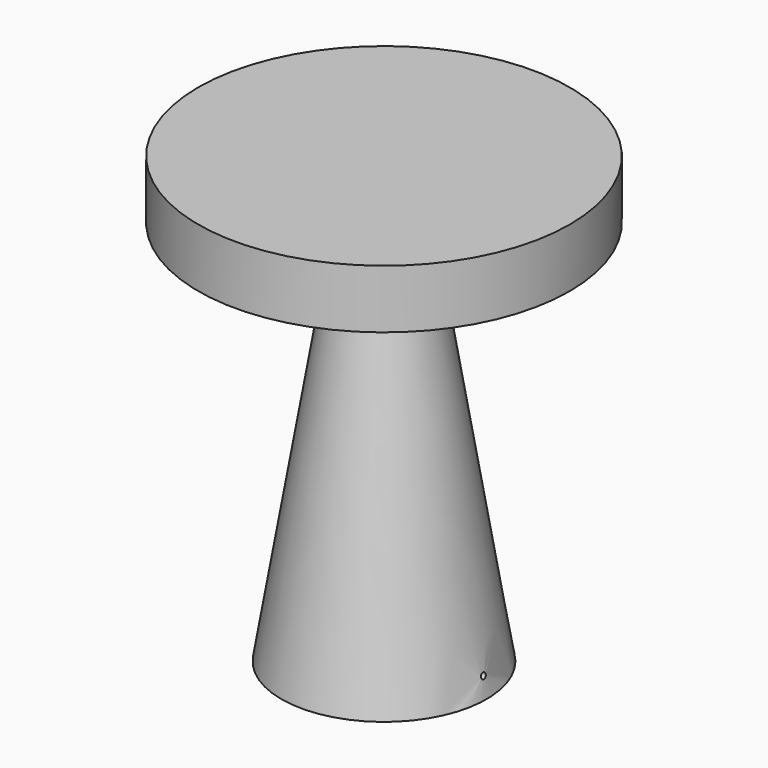
from build123d import *

# Parameters (mm, degrees)
F2_R           = 8.5
F6_R           = 6
F7_DEPTH       = 475
F8_R           = 67.5
F8_R_2         = 6
F9_DEPTH       = 30
F10_W          = 1
F10_H          = 25
F12_W          = 1
F12_H          = 25
F14_W          = 1
F14_H          = 50
F16_W          = 30
F16_H          = 4
F20_W          = 248.7395628745
F20_H          = 150
F21_DEPTH      = 180.001
F21_DEPTH_BACK = 180.001
F26_R          = 6
F27_DEPTH      = 30
F28_R          = 5
F29_DEPTH      = 425.001
F30_W          = 17.797998304
F30_H          = 9.9990194846
F31_DEPTH      = 5
F32_W          = 30
F32_H          = 20
F33_DEPTH      = 23
F34_W          = 11.7895848751
F34_H          = 20
F35_DEPTH      = 15
F37_DEPTH      = 5
F37_DEPTH_BACK = 5
F38_R          = 6
F38_R_2        = 5
F39_DEPTH      = 25
F40_R          = 80
F41_DEPTH      = 35
F43_R          = 3
F44_DEPTH      = 190.001
F45_R          = 6
F46_DEPTH      = 20
F47_R          = 6
F47_R_2        = 5
F48_DEPTH      = 18
F49_R          = 5
F50_DEPTH      = 20
F50_DEPTH_BACK = 20


with BuildPart() as f1:
    # F0 (on Front) → F1 (revolve)
    with BuildSketch(Plane.XZ):
        Polygon((-80, 0), (0, 0), (0, 450), (-20, 450), align=None)
    revolve(axis=Axis((0, 0, 225), (0, 0, -1)))


with BuildPart() as f3:
    # F2 (on Front) → F3 (revolve)
    with BuildSketch(Plane.XZ):
        with Locations((-141.5, 410)):
            Circle(F2_R)
    revolve(axis=Axis((0, 0, 205), (0, 0, -1)))


with BuildPart() as f5:
    # F4 (on Front) → F5 (revolve)
    with BuildSketch(Plane.XZ):
        Polygon((-180, 500), (-180, 450), (-165, 450), (-165, 475), (-20, 475), (-20, 450), (0, 450), (0, 475), (0, 500), align=None)
    revolve(axis=Axis((0, 0, 487.5), (0, 0, 1)))


with BuildPart() as f7_tool:
    # F6 (on face) → F7 (new body, through all)
    with BuildSketch(Plane(origin=(0, 0, 0), x_dir=(1, 0, 0), z_dir=(0, 0, -1))):
        Circle(F6_R)
    extrude(amount=-F7_DEPTH)


with BuildPart() as f1_1:
    add(f1.part)

    # F7: cut by f7_tool
    add(f7_tool.part, mode=Mode.SUBTRACT)

    # F8 (on face) → F9 (cut)
    with BuildSketch(Plane(origin=(0, 0, 0), x_dir=(1, 0, 0), z_dir=(0, 0, -1))):
        Circle(F8_R)
        Circle(F8_R_2, mode=Mode.SUBTRACT)
    extrude(amount=-F9_DEPTH, mode=Mode.SUBTRACT)

    # F16 (on Front) → F17 (revolve, cut)
    with BuildSketch(Plane.XZ):
        with Locations((-15, 418.7703390121)):
            Rectangle(F16_W, F16_H)
    revolve(axis=Axis((-15, 0, 416.7703390121), (-1, 0, 0)), mode=Mode.SUBTRACT)


with BuildPart() as f5_1:
    add(f5.part)

    # F7: cut by f7_tool
    add(f7_tool.part, mode=Mode.SUBTRACT)


with BuildPart() as f11:
    # F10 (on Front) → F11 (revolve)
    with BuildSketch(Plane.XZ):
        with Locations((-5.3890798015, 462.6714408398)):
            Rectangle(F10_W, F10_H)
    revolve(axis=Axis((0.1109201985, 0, 462.6714408398), (0, 0, -1)))


with BuildPart() as f13:
    # F12 (on Front) → F13 (revolve)
    with BuildSketch(Plane.XZ):
        with Locations((-5.5, 437.4423503876)):
            Rectangle(F12_W, F12_H)
    revolve(axis=Axis((0, 0, 437.4423503876), (0, 0, -1)))


with BuildPart() as f15:
    # F14 (on Front) → F15 (revolve)
    with BuildSketch(Plane.XZ):
        with Locations((-4.5, 449.8964532635)):
            Rectangle(F14_W, F14_H)
    revolve(axis=Axis((0, 0, 449.8964532635), (0, 0, 1)))


with BuildPart() as f19:
    # F18 (on Front) → F19 (revolve)
    with BuildSketch(Plane.XZ):
        Polygon((-102.8210520744, 0), (-47.8210520744, 0), (-47.8210520744, 450.0480890274), (-102.8210520744, 450), align=None)
    revolve(axis=Axis((-47.8210520744, 0, 225.0240445137), (0, 0, 1)))


with BuildPart() as f21_tool:
    # F20 (on Front) → F21 (new body, two sides)
    with BuildSketch(Plane.XZ) as f21_sk:
        with Locations((-50.1048900458, 75)):
            Rectangle(F20_W, F20_H)
    extrude(amount=-F21_DEPTH)
    extrude(f21_sk.sketch, amount=F21_DEPTH_BACK)


with BuildPart() as f1_2:
    add(f1_1.part)

    # F21: cut by f21_tool
    add(f21_tool.part, mode=Mode.SUBTRACT)


with BuildPart() as f19_1:
    add(f19.part)

    # F21: cut by f21_tool
    add(f21_tool.part, mode=Mode.SUBTRACT)


with BuildPart() as f23:
    # F22 (on Front) → F23 (revolve)
    with BuildSketch(Plane.XZ):
        Polygon((-105, 0), (0, 0), (0, 425), (-35, 425), align=None)
    revolve(axis=Axis((0, 0, 212.5), (0, 0, 1)))


with BuildPart() as f25:
    # F24 (on Front) → F25 (revolve)
    with BuildSketch(Plane.XZ):
        Polygon((-175, 425), (0, 425), (0, 455), (-190, 455), (-190, 395), (-175, 395), align=None)
    revolve(axis=Axis((0, 0, 440), (0, 0, -1)))

    # F45 (on face) → F46 (cut)
    with BuildSketch(Plane(origin=(0, 0, 425), x_dir=(1, 0, 0), z_dir=(0, 0, -1))):
        Circle(F45_R)
    extrude(amount=-F46_DEPTH, mode=Mode.SUBTRACT)


with BuildPart() as f27_tool:
    # F26 (on face) → F27 (new body)
    with BuildSketch(Plane.XY.offset(425)):
        Circle(F26_R)
    extrude(amount=-F27_DEPTH)


with BuildPart() as f13_1:
    add(f13.part)

    # F27: cut by f27_tool
    add(f27_tool.part, mode=Mode.SUBTRACT)


with BuildPart() as f15_1:
    add(f15.part)

    # F27: cut by f27_tool
    add(f27_tool.part, mode=Mode.SUBTRACT)


with BuildPart() as f19_2:
    add(f19_1.part)

    # F27: cut by f27_tool
    add(f27_tool.part, mode=Mode.SUBTRACT)


with BuildPart() as f23_1:
    add(f23.part)

    # F27: cut by f27_tool
    add(f27_tool.part, mode=Mode.SUBTRACT)


with BuildPart() as f29_tool:
    # F28 (on face) → F29 (new body, through all)
    with BuildSketch(Plane.XY.offset(425)):
        with Locations((-26.257250458, -0.2152346278)):
            Circle(F28_R)
    extrude(amount=-F29_DEPTH)


with BuildPart() as f1_3:
    add(f1_2.part)

    # F29: cut by f29_tool
    add(f29_tool.part, mode=Mode.SUBTRACT)


with BuildPart() as f19_3:
    add(f19_2.part)

    # F29: cut by f29_tool
    add(f29_tool.part, mode=Mode.SUBTRACT)


with BuildPart() as f23_2:
    add(f23_1.part)

    # F29: cut by f29_tool
    add(f29_tool.part, mode=Mode.SUBTRACT)


with BuildPart() as f31_tool:
    # F30 (on face) → F31 (new body)
    with BuildSketch(Plane.XY.offset(425)):
        with Locations((-35.2262662969, -0.2152346278)):
            Rectangle(F30_W, F30_H)
    extrude(amount=-F31_DEPTH)


with BuildPart() as f19_4:
    add(f19_3.part)

    # F31: cut by f31_tool
    add(f31_tool.part, mode=Mode.SUBTRACT)


with BuildPart() as f23_3:
    add(f23_2.part)

    # F31: cut by f31_tool
    add(f31_tool.part, mode=Mode.SUBTRACT)


with BuildPart() as f33:
    # F32 (on face) → F33 (new body)
    with BuildSketch(Plane(origin=(0, 0, 425), x_dir=(1, 0, 0), z_dir=(0, 0, -1))):
        with Locations((-141, 0)):
            Rectangle(F32_W, F32_H)
    extrude(amount=F33_DEPTH)

    # F34 (on face) → F35 (cut)
    with BuildSketch(Plane(origin=(0, 0, 402), x_dir=(1, 0, 0), z_dir=(0, 0, -1))):
        with Locations((-141, 0)):
            Rectangle(F34_W, F34_H)
    extrude(amount=-F35_DEPTH, mode=Mode.SUBTRACT)


with BuildPart() as f37:
    # F36 (on Front) → F37 (new body, two sides)
    with BuildSketch(Plane.XZ) as f37_sk:
        with BuildLine():
            Line((146.5550230936, 425.1865480025), (141.5586053633, 424.9973130571))
            Line((141.5586053633, 424.9973130571), (136.5586053633, 424.9973130571))
            Line((136.5586053633, 424.9973130571), (136.5586053633, 417.9973130571))
            ThreePointArc((136.5586053633, 417.9973130571), (132.2968854263, 410.8704754204), (135.199222799, 403.0903398627))
            ThreePointArc((135.199222799, 403.0903398627), (136.1136393161, 401.6620444599), (136.1050080243, 399.9661344313))
            Line((136.1050080243, 399.9661344313), (136.3922773193, 399.8796685296))
            ThreePointArc((136.3922773193, 399.8796685296), (136.4028856807, 401.7417381977), (135.4017345745, 403.3118058551))
            ThreePointArc((135.4017345745, 403.3118058551), (132.6036502112, 410.9268259991), (136.8586053633, 417.8342976458))
            Line((136.8586053633, 417.8342976458), (136.8586053633, 424.6973130571))
            Line((136.8586053633, 424.6973130571), (141.5642844461, 424.6973130571))
            Line((141.5642844461, 424.6973130571), (146.2665921265, 424.875408842))
            Line((146.2665921265, 424.875408842), (146.5263365959, 418.0173104652))
            ThreePointArc((146.5263365959, 418.0173104652), (151.0396702727, 411.275824945), (148.5317961924, 403.5603615439))
            ThreePointArc((148.5317961924, 403.5603615439), (147.5907846983, 401.9535282127), (147.6718591897, 400.0931941263))
            Line((147.6718591897, 400.0931941263), (147.9556501955, 400.190470357))
            ThreePointArc((147.9556501955, 400.190470357), (147.8828399992, 401.8848386757), (148.7425446984, 403.3467186826))
            ThreePointArc((148.7425446984, 403.3467186826), (151.3483479745, 411.2311248624), (146.8199520172, 418.1915631801))
            Line((146.8199520172, 418.1915631801), (146.5550230936, 425.1865480025))
        make_face()
    extrude(amount=F37_DEPTH)
    extrude(f37_sk.sketch, amount=-F37_DEPTH_BACK)


with BuildPart() as f39:
    # F38 (on face) → F39 (new body)
    with BuildSketch(Plane.XY.offset(425)):
        Circle(F38_R)
        Circle(F38_R_2, mode=Mode.SUBTRACT)
    extrude(amount=-F39_DEPTH)


with BuildPart() as f41_tool:
    # F40 (on face) → F41 (new body)
    with BuildSketch(Plane(origin=(0, 0, 0), x_dir=(1, 0, 0), z_dir=(0, 0, -1))):
        Circle(F40_R)
    extrude(amount=-F41_DEPTH)


with BuildPart() as f1_4:
    add(f1_3.part)

    # F41: cut by f41_tool
    add(f41_tool.part, mode=Mode.SUBTRACT)


with BuildPart() as f23_4:
    add(f23_3.part)

    # F41: cut by f41_tool
    add(f41_tool.part, mode=Mode.SUBTRACT)

    # F43 (on Right) → F44 (cut, through all)
    with BuildSketch(Plane.YZ):
        with Locations((0, 20)):
            Circle(F43_R)
    extrude(amount=F44_DEPTH, mode=Mode.SUBTRACT)


with BuildPart() as f48:
    # F47 (on face) → F48 (new body)
    with BuildSketch(Plane(origin=(0, 0, 425), x_dir=(1, 0, 0), z_dir=(0, 0, -1))):
        Circle(F47_R)
        Circle(F47_R_2, mode=Mode.SUBTRACT)
    extrude(amount=-F48_DEPTH)


with BuildPart() as f50:
    # F49 (on face) → F50 (new body, two sides)
    with BuildSketch(Plane(origin=(0, 0, 425), x_dir=(1, 0, 0), z_dir=(0, 0, -1))) as f50_sk:
        Circle(F49_R)
    extrude(amount=F50_DEPTH)
    extrude(f50_sk.sketch, amount=-F50_DEPTH_BACK)


solid = Compound([f3.part, f25.part, f33.part, f37.part, f39.part, f23_4.part, f48.part, f50.part])
